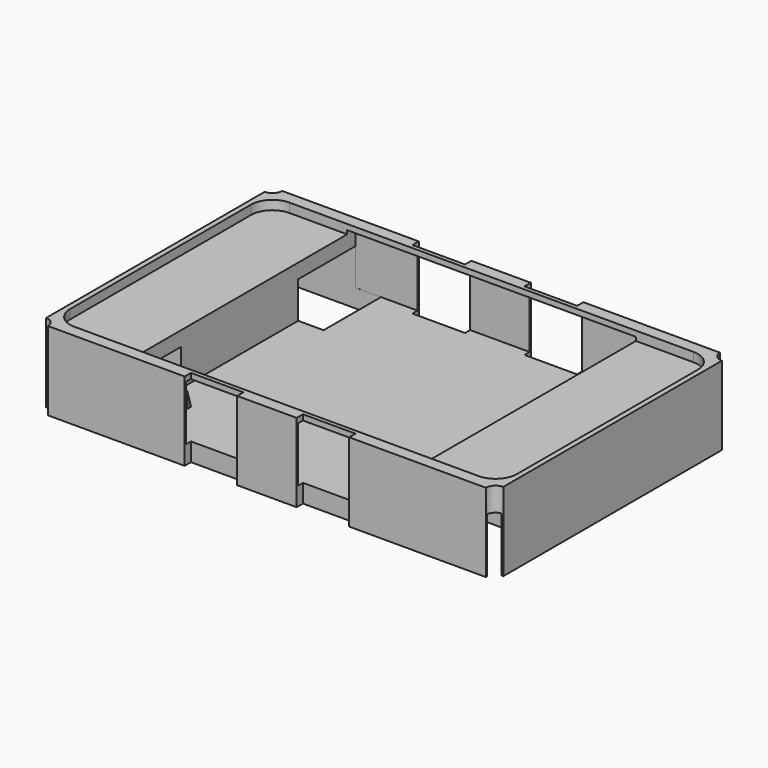
from build123d import *

# Parameters (mm, degrees)
PAD006_DEPTH = 0.1
PAD007_DEPTH = 0.2
FILLET_R     = 0.07
PAD_DEPTH    = 0.86
SKETCH005_W  = 3.157072
SKETCH005_H  = 3.167884
PAD004_DEPTH = 0.6
SKETCH004_W  = 1.182453
SKETCH004_H  = 0.783814
PAD005_DEPTH = 0.6


with BuildPart() as substrate:
    # Sketch006 → Pad006 (new body)
    with BuildSketch(Plane.XY):
        with BuildLine():
            Line((-2.210251, 1.469894), (2.210251, 1.469894))
            ThreePointArc((2.442988, 1.237157), (2.374821, 1.401727), (2.210251, 1.469894))
            Line((2.442988, 1.237157), (2.442988, -1.237157))
            ThreePointArc((2.210251, -1.469894), (2.374821, -1.401727), (2.442988, -1.237157))
            Line((2.210251, -1.469894), (-2.210251, -1.469894))
            ThreePointArc((-2.442988, -1.237157), (-2.374821, -1.401727), (-2.210251, -1.469894))
            Line((-2.442988, -1.237157), (-2.442988, 1.237157))
            ThreePointArc((-2.210251, 1.469894), (-2.374821, 1.401727), (-2.442988, 1.237157))
        make_face()
    extrude(amount=-PAD006_DEPTH)

    # Sketch007 → Pad007 (join)
    with BuildSketch(Plane.XY):
        with BuildLine():
            Line((-2.242494, 1.3481), (2.242494, 1.3481))
            ThreePointArc((2.32297, 1.267624), (2.299399, 1.324529), (2.242494, 1.3481))
            Line((2.32297, 1.267624), (2.32297, -1.267624))
            ThreePointArc((2.242494, -1.3481), (2.299399, -1.324529), (2.32297, -1.267624))
            Line((2.242494, -1.3481), (-2.242494, -1.3481))
            ThreePointArc((-2.32297, -1.267624), (-2.299399, -1.324529), (-2.242494, -1.3481))
            Line((-2.32297, -1.267624), (-2.32297, 1.267624))
            ThreePointArc((-2.242494, 1.3481), (-2.299399, 1.324529), (-2.32297, 1.267624))
        make_face()
    extrude(amount=PAD007_DEPTH)

    # Fillet
    fillet_edges = [substrate.edges().sort_by_distance(p)[0] for p in [
        (-2.299399, -1.324529, 0),
        (-2.32297, 0, 0),
        (0, -1.3481, 0),
        (2.299399, -1.324529, 0),
        (2.32297, 0, 0),
        (2.299399, 1.324529, 0),
        (0, 1.3481, 0),
        (-2.299399, 1.324529, 0),
    ]]
    fillet(fillet_edges, radius=FILLET_R)


with BuildPart() as substrate_1:
    # Body006 placement: moved
    add(substrate.part.moved(Location((0, 0, 0.86))))


with BuildPart() as epoxy_envelope:
    # Sketch → Pad (new body)
    with BuildSketch(Plane.XY):
        with BuildLine():
            ThreePointArc((-2.5, 1.493934), (-2.425, 1.525), (-2.393934, 1.6))
            Line((-2.393934, 1.6), (-0.9, 1.6))
            Line((-0.9, 1.514092), (-0.9, 1.6))
            Line((-0.325, 1.514092), (-0.9, 1.514092))
            Line((-0.325, 1.6), (-0.325, 1.514092))
            Line((-0.325, 1.6), (0.325, 1.6))
            Line((0.325, 1.514092), (0.325, 1.6))
            Line((0.9, 1.514092), (0.325, 1.514092))
            Line((0.9, 1.6), (0.9, 1.514092))
            Line((0.9, 1.6), (2.393934, 1.6))
            ThreePointArc((2.393934, 1.6), (2.425, 1.525), (2.5, 1.493934))
            Line((2.5, 1.493934), (2.5, -1.493934))
            ThreePointArc((2.5, -1.493934), (2.425, -1.525), (2.393934, -1.6))
            Line((0.9, -1.6), (2.393934, -1.6))
            Line((0.9, -1.514092), (0.9, -1.6))
            Line((0.325, -1.514092), (0.9, -1.514092))
            Line((0.325, -1.6), (0.325, -1.514092))
            Line((-0.325, -1.6), (0.325, -1.6))
            Line((-0.325, -1.514092), (-0.325, -1.6))
            Line((-0.9, -1.514092), (-0.325, -1.514092))
            Line((-0.9, -1.6), (-0.9, -1.514092))
            Line((-2.393934, -1.6), (-0.9, -1.6))
            ThreePointArc((-2.393934, -1.6), (-2.425, -1.525), (-2.5, -1.493934))
            Line((-2.5, -1.493934), (-2.5, 1.493934))
        make_face()
    extrude(amount=PAD_DEPTH)


with BuildPart() as epoxy_envelope_clone:
    # Body005 base: copy of Epoxy Envelope
    add(epoxy_envelope.part)


with BuildPart() as gold_bits_clone:
    # Sketch005 (on DatumPlane) → Pad004 (new body)
    with BuildSketch(Plane.XY.offset(0.2)):
        Rectangle(SKETCH005_W, SKETCH005_H)
    extrude(amount=PAD004_DEPTH)

    # Sketch004 → Pad005 (join)
    with BuildSketch(Plane.XY):
        Polygon((-2.482453, -1.583814), (-1.3, -1.583814), (-1.3, -1.012132), (-1.512132, -0.8), (-2.482453, -0.8), align=None)
        with Locations((-1.891227, 1.191907)):
            Rectangle(SKETCH004_W, SKETCH004_H)
        with Locations((1.891227, 1.191907)):
            Rectangle(SKETCH004_W, SKETCH004_H)
        with Locations((1.891227, -1.191907)):
            Rectangle(SKETCH004_W, SKETCH004_H)
    extrude(amount=PAD005_DEPTH)

    # Common: intersect Epoxy Envelope Clone
    add(epoxy_envelope_clone.part, mode=Mode.INTERSECT)

    # Fusion: union Substrate
    add(substrate_1.part)


with BuildPart() as epoxy:
    # Cut base: copy of Epoxy Envelope
    add(epoxy_envelope.part)

    # Cut: cut Gold Bits Clone
    add(gold_bits_clone.part, mode=Mode.SUBTRACT)


solid = epoxy.part
